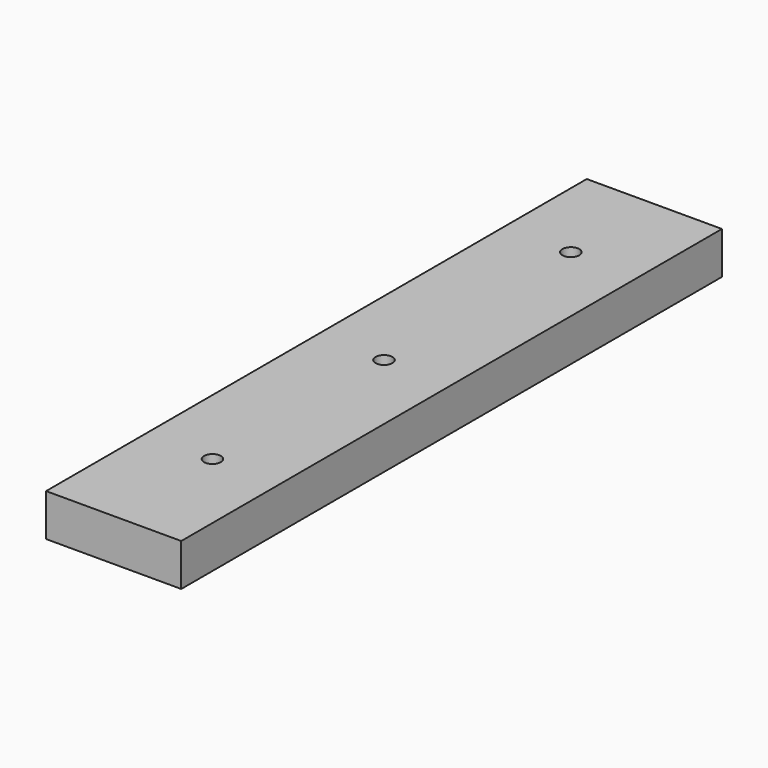
from build123d import *

# Parameters (mm, degrees)
F0_W     = 80
F0_H     = 400
F1_DEPTH = 25
F3_D     = 10


with BuildPart() as f1:
    # F0 (on Top) → F1 (new body)
    with BuildSketch(Plane.XY):
        Rectangle(F0_W, F0_H)
    extrude(amount=F1_DEPTH)

    # F3 (through all)
    with Locations(Plane.XY.offset(25)):
        with Locations((0, 138.237476), (0, 0), (0, -126.915723)):
            Hole(F3_D / 2)


solid = f1.part
